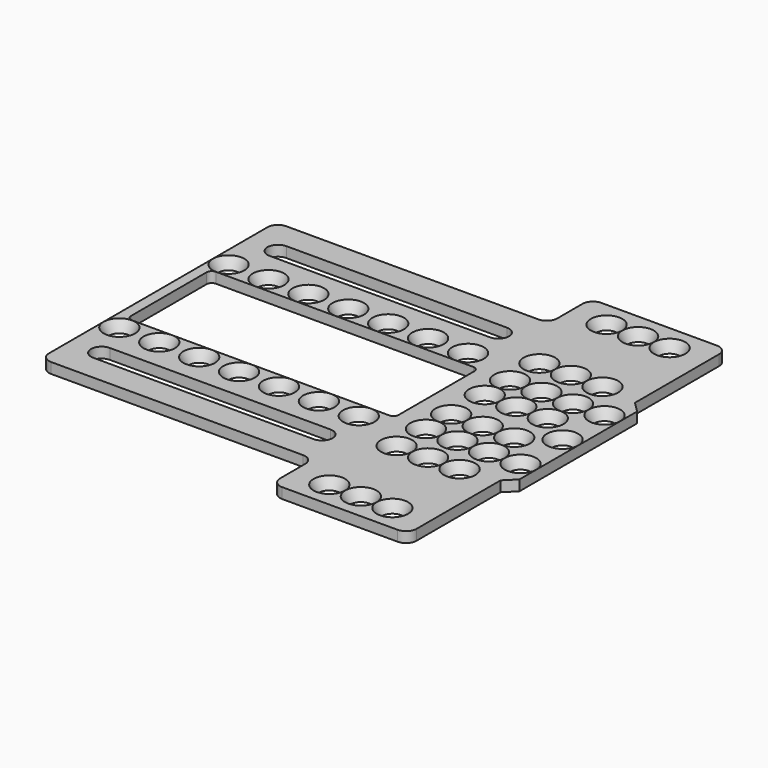
from build123d import *

# Parameters (mm, degrees)
SKETCH051_R             = 1
SKETCH050_R             = 1.5
SKETCH049_R             = 1
SKETCH048_R             = 1.5
SKETCH053_R             = 1
SKETCH052_R             = 1.5
SKETCH009_R             = 1
SKETCH008_R             = 1.5
LOFT004_PLACEMENT_ANGLE = 90
SKETCH011_R             = 1
SKETCH010_R             = 1.5
SKETCH012_R             = 1
SKETCH015_R             = 1.5
SKETCH017_R             = 1
SKETCH016_R             = 1.5
SKETCH014_R             = 1
SKETCH013_R             = 1.5
LOFT006_PLACEMENT_ANGLE = 90
SKETCH044_R             = 1
SKETCH047_R             = 1.5
SKETCH046_R             = 1
SKETCH045_R             = 1.5
SKETCH043_R             = 1
SKETCH042_R             = 1.5
LOFT021_PLACEMENT_ANGLE = 90
SKETCH039_R             = 1
SKETCH038_R             = 1.5
SKETCH035_R             = 1
SKETCH034_R             = 1.5
SKETCH041_R             = 1
SKETCH040_R             = 1.5
LOFT020_PLACEMENT_ANGLE = 90
SKETCH032_R             = 1
SKETCH037_R             = 1.5
SKETCH036_R             = 1
SKETCH033_R             = 1.5
SKETCH031_R             = 1
SKETCH030_R             = 1.5
LOFT015_PLACEMENT_ANGLE = 90
SKETCH027_R             = 1
SKETCH026_R             = 1.5
SKETCH025_R             = 1
SKETCH024_R             = 1.5
SKETCH029_R             = 1
SKETCH028_R             = 1.5
LOFT014_PLACEMENT_ANGLE = 90
SKETCH021_R             = 1
SKETCH020_R             = 1.5
SKETCH023_R             = 1
SKETCH022_R             = 1.5
SKETCH019_R             = 1
SKETCH018_R             = 1.5
LOFT009_PLACEMENT_ANGLE = 90
SKETCH007_R             = 1
SKETCH004_R             = 1.5
SKETCH001_R             = 1
SKETCH_R                = 1.5
SKETCH003_R             = 1
SKETCH002_R             = 1.5
LOFT001_PLACEMENT_ANGLE = 90
SKETCH006_R             = 1
SKETCH005_R             = 1.5
SKETCH059_R             = 1
SKETCH058_R             = 1.5
LOFT028_PLACEMENT_ANGLE = 90
SKETCH061_R             = 1
SKETCH060_R             = 1.5
LOFT029_PLACEMENT_ANGLE = 90
SKETCH063_R             = 1
SKETCH062_R             = 1.5
LOFT030_PLACEMENT_ANGLE = 90
SKETCH065_R             = 1
SKETCH069_R             = 1.5
LOFT031_PLACEMENT_ANGLE = 90
SKETCH067_R             = 1
SKETCH066_R             = 1.5
LOFT032_PLACEMENT_ANGLE = 90
SKETCH068_R             = 1
SKETCH064_R             = 1.5
LOFT033_PLACEMENT_ANGLE = 90
SKETCH057_R             = 1
SKETCH056_R             = 1.5
LOFT027_PLACEMENT_ANGLE = 90
SKETCH075_R             = 1
SKETCH083_R             = 1.5
LOFT036_PLACEMENT_ANGLE = 90
SKETCH079_R             = 1
SKETCH078_R             = 1.5
LOFT037_PLACEMENT_ANGLE = 90
SKETCH074_R             = 1
SKETCH073_R             = 1.5
LOFT038_PLACEMENT_ANGLE = 90
SKETCH080_R             = 1
SKETCH076_R             = 1.5
LOFT039_PLACEMENT_ANGLE = 90
SKETCH082_R             = 1
SKETCH081_R             = 1.5
LOFT040_PLACEMENT_ANGLE = 90
SKETCH071_R             = 1
SKETCH070_R             = 1.5
LOFT034_PLACEMENT_ANGLE = 90
SKETCH077_R             = 1
SKETCH072_R             = 1.5
LOFT035_PLACEMENT_ANGLE = 90
EXTRUDE_DEPTH           = 1
EXTRUDE001_DEPTH        = 1
EXTRUDE003_DEPTH        = 1
EXTRUDE002_DEPTH        = 1
CUT010_PLACEMENT_ANGLE  = 180


with BuildPart() as loft094:
    # Sketch051 → Loft025 section 0
    with BuildSketch(Plane.XY):
        with Locations((2, 2)):
            Circle(SKETCH051_R)
    # Sketch050 → Loft025 section 1
    with BuildSketch(Plane.XY.offset(1)):
        with Locations((2, 2)):
            Circle(SKETCH050_R)
    loft()


with BuildPart() as loft094_1:
    # Loft025 placement: moved
    add(loft094.part.moved(Location((-1.5, 22, 0))))


with BuildPart() as loft093:
    # Sketch049 → Loft024 section 0
    with BuildSketch(Plane.XY):
        with Locations((2, 2)):
            Circle(SKETCH049_R)
    # Sketch048 → Loft024 section 1
    with BuildSketch(Plane.XY.offset(1)):
        with Locations((2, 2)):
            Circle(SKETCH048_R)
    loft()


with BuildPart() as loft093_1:
    # Loft024 placement: moved
    add(loft093.part.moved(Location((-1.5, 12, 0))))


with BuildPart() as fusion004:
    # Sketch053 → Loft026 section 0
    with BuildSketch(Plane.XY):
        with Locations((2, 2)):
            Circle(SKETCH053_R)
    # Sketch052 → Loft026 section 1
    with BuildSketch(Plane.XY.offset(1)):
        with Locations((2, 2)):
            Circle(SKETCH052_R)
    loft()


with BuildPart() as fusion004_1:
    # Loft026 placement: moved
    add(fusion004.part.moved(Location((-1.5, 17, 0))))

    # Fusion004: union Loft094, Loft093
    add(loft094_1.part)
    add(loft093_1.part)


with BuildPart() as loft074:
    # Sketch009 → Loft004 section 0
    with BuildSketch(Plane.XY):
        with Locations((2, 2)):
            Circle(SKETCH009_R)
    # Sketch008 → Loft004 section 1
    with BuildSketch(Plane.XY.offset(1)):
        with Locations((2, 2)):
            Circle(SKETCH008_R)
    loft()


with BuildPart() as loft074_1:
    # Loft004 placement: moved
    add(loft074.part.moved(Location((11.502, 33.5, 0))).rotate(Axis((11.502, 33.5, 0), (0, 0, 1)), LOFT004_PLACEMENT_ANGLE))


with BuildPart() as loft005:
    # Sketch011 → Loft005 section 0
    with BuildSketch(Plane.XY):
        with Locations((2, 2)):
            Circle(SKETCH011_R)
    # Sketch010 → Loft005 section 1
    with BuildSketch(Plane.XY.offset(1)):
        with Locations((2, 2)):
            Circle(SKETCH010_R)
    loft()


with BuildPart() as loft005_1:
    # Loft005 placement: moved
    add(loft005.part.moved(Location((1.5, 33.5, 0))))


with BuildPart() as loft076:
    # Sketch012 → Loft007 section 0
    with BuildSketch(Plane.XY):
        with Locations((2, 2)):
            Circle(SKETCH012_R)
    # Sketch015 → Loft007 section 1
    with BuildSketch(Plane.XY.offset(1)):
        with Locations((2, 2)):
            Circle(SKETCH015_R)
    loft()


with BuildPart() as loft076_1:
    # Loft007 placement: moved
    add(loft076.part.moved(Location((1.5, 25.5, 0))))


with BuildPart() as loft077:
    # Sketch017 → Loft008 section 0
    with BuildSketch(Plane.XY):
        with Locations((2, 2)):
            Circle(SKETCH017_R)
    # Sketch016 → Loft008 section 1
    with BuildSketch(Plane.XY.offset(1)):
        with Locations((2, 2)):
            Circle(SKETCH016_R)
    loft()


with BuildPart() as loft077_1:
    # Loft008 placement: moved
    add(loft077.part.moved(Location((4.501, 25.5, 0))))


with BuildPart() as loft075:
    # Sketch014 → Loft006 section 0
    with BuildSketch(Plane.XY):
        with Locations((2, 2)):
            Circle(SKETCH014_R)
    # Sketch013 → Loft006 section 1
    with BuildSketch(Plane.XY.offset(1)):
        with Locations((2, 2)):
            Circle(SKETCH013_R)
    loft()


with BuildPart() as loft075_1:
    # Loft006 placement: moved
    add(loft075.part.moved(Location((11.502, 25.5, 0))).rotate(Axis((11.502, 25.5, 0), (0, 0, 1)), LOFT006_PLACEMENT_ANGLE))


with BuildPart() as loft092:
    # Sketch044 → Loft023 section 0
    with BuildSketch(Plane.XY):
        with Locations((2, 2)):
            Circle(SKETCH044_R)
    # Sketch047 → Loft023 section 1
    with BuildSketch(Plane.XY.offset(1)):
        with Locations((2, 2)):
            Circle(SKETCH047_R)
    loft()


with BuildPart() as loft092_1:
    # Loft023 placement: moved
    add(loft092.part.moved(Location((1.5, 22, 0))))


with BuildPart() as loft091:
    # Sketch046 → Loft022 section 0
    with BuildSketch(Plane.XY):
        with Locations((2, 2)):
            Circle(SKETCH046_R)
    # Sketch045 → Loft022 section 1
    with BuildSketch(Plane.XY.offset(1)):
        with Locations((2, 2)):
            Circle(SKETCH045_R)
    loft()


with BuildPart() as loft091_1:
    # Loft022 placement: moved
    add(loft091.part.moved(Location((4.501, 22, 0))))


with BuildPart() as loft090:
    # Sketch043 → Loft021 section 0
    with BuildSketch(Plane.XY):
        with Locations((2, 2)):
            Circle(SKETCH043_R)
    # Sketch042 → Loft021 section 1
    with BuildSketch(Plane.XY.offset(1)):
        with Locations((2, 2)):
            Circle(SKETCH042_R)
    loft()


with BuildPart() as loft090_1:
    # Loft021 placement: moved
    add(loft090.part.moved(Location((11.503, 22, 0))).rotate(Axis((11.503, 22, 0), (0, 0, 1)), LOFT021_PLACEMENT_ANGLE))


with BuildPart() as loft088:
    # Sketch039 → Loft019 section 0
    with BuildSketch(Plane.XY):
        with Locations((2, 2)):
            Circle(SKETCH039_R)
    # Sketch038 → Loft019 section 1
    with BuildSketch(Plane.XY.offset(1)):
        with Locations((2, 2)):
            Circle(SKETCH038_R)
    loft()


with BuildPart() as loft088_1:
    # Loft019 placement: moved
    add(loft088.part.moved(Location((1.5, 18.999, 0))))


with BuildPart() as loft087:
    # Sketch035 → Loft018 section 0
    with BuildSketch(Plane.XY):
        with Locations((2, 2)):
            Circle(SKETCH035_R)
    # Sketch034 → Loft018 section 1
    with BuildSketch(Plane.XY.offset(1)):
        with Locations((2, 2)):
            Circle(SKETCH034_R)
    loft()


with BuildPart() as loft087_1:
    # Loft018 placement: moved
    add(loft087.part.moved(Location((4.501, 18.999, 0))))


with BuildPart() as loft089:
    # Sketch041 → Loft020 section 0
    with BuildSketch(Plane.XY):
        with Locations((2, 2)):
            Circle(SKETCH041_R)
    # Sketch040 → Loft020 section 1
    with BuildSketch(Plane.XY.offset(1)):
        with Locations((2, 2)):
            Circle(SKETCH040_R)
    loft()


with BuildPart() as loft089_1:
    # Loft020 placement: moved
    add(loft089.part.moved(Location((11.502, 18.999, 0))).rotate(Axis((11.502, 18.999, 0), (0, 0, 1)), LOFT020_PLACEMENT_ANGLE))


with BuildPart() as loft086:
    # Sketch032 → Loft017 section 0
    with BuildSketch(Plane.XY):
        with Locations((2, 2)):
            Circle(SKETCH032_R)
    # Sketch037 → Loft017 section 1
    with BuildSketch(Plane.XY.offset(1)):
        with Locations((2, 2)):
            Circle(SKETCH037_R)
    loft()


with BuildPart() as loft086_1:
    # Loft017 placement: moved
    add(loft086.part.moved(Location((1.5, 15.001, 0))))


with BuildPart() as loft085:
    # Sketch036 → Loft016 section 0
    with BuildSketch(Plane.XY):
        with Locations((2, 2)):
            Circle(SKETCH036_R)
    # Sketch033 → Loft016 section 1
    with BuildSketch(Plane.XY.offset(1)):
        with Locations((2, 2)):
            Circle(SKETCH033_R)
    loft()


with BuildPart() as loft085_1:
    # Loft016 placement: moved
    add(loft085.part.moved(Location((4.501, 15.001, 0))))


with BuildPart() as loft084:
    # Sketch031 → Loft015 section 0
    with BuildSketch(Plane.XY):
        with Locations((2, 2)):
            Circle(SKETCH031_R)
    # Sketch030 → Loft015 section 1
    with BuildSketch(Plane.XY.offset(1)):
        with Locations((2, 2)):
            Circle(SKETCH030_R)
    loft()


with BuildPart() as loft084_1:
    # Loft015 placement: moved
    add(loft084.part.moved(Location((11.502, 15.001, 0))).rotate(Axis((11.502, 15.001, 0), (0, 0, 1)), LOFT015_PLACEMENT_ANGLE))


with BuildPart() as loft082:
    # Sketch027 → Loft013 section 0
    with BuildSketch(Plane.XY):
        with Locations((2, 2)):
            Circle(SKETCH027_R)
    # Sketch026 → Loft013 section 1
    with BuildSketch(Plane.XY.offset(1)):
        with Locations((2, 2)):
            Circle(SKETCH026_R)
    loft()


with BuildPart() as loft082_1:
    # Loft013 placement: moved
    add(loft082.part.moved(Location((1.5, 12, 0))))


with BuildPart() as loft081:
    # Sketch025 → Loft012 section 0
    with BuildSketch(Plane.XY):
        with Locations((2, 2)):
            Circle(SKETCH025_R)
    # Sketch024 → Loft012 section 1
    with BuildSketch(Plane.XY.offset(1)):
        with Locations((2, 2)):
            Circle(SKETCH024_R)
    loft()


with BuildPart() as loft081_1:
    # Loft012 placement: moved
    add(loft081.part.moved(Location((4.501, 12, 0))))


with BuildPart() as loft083:
    # Sketch029 → Loft014 section 0
    with BuildSketch(Plane.XY):
        with Locations((2, 2)):
            Circle(SKETCH029_R)
    # Sketch028 → Loft014 section 1
    with BuildSketch(Plane.XY.offset(1)):
        with Locations((2, 2)):
            Circle(SKETCH028_R)
    loft()


with BuildPart() as loft083_1:
    # Loft014 placement: moved
    add(loft083.part.moved(Location((11.502, 12, 0))).rotate(Axis((11.502, 12, 0), (0, 0, 1)), LOFT014_PLACEMENT_ANGLE))


with BuildPart() as loft079:
    # Sketch021 → Loft010 section 0
    with BuildSketch(Plane.XY):
        with Locations((2, 2)):
            Circle(SKETCH021_R)
    # Sketch020 → Loft010 section 1
    with BuildSketch(Plane.XY.offset(1)):
        with Locations((2, 2)):
            Circle(SKETCH020_R)
    loft()


with BuildPart() as loft079_1:
    # Loft010 placement: moved
    add(loft079.part.moved(Location((1.5, 8.5, 0))))


with BuildPart() as loft080:
    # Sketch023 → Loft011 section 0
    with BuildSketch(Plane.XY):
        with Locations((2, 2)):
            Circle(SKETCH023_R)
    # Sketch022 → Loft011 section 1
    with BuildSketch(Plane.XY.offset(1)):
        with Locations((2, 2)):
            Circle(SKETCH022_R)
    loft()


with BuildPart() as loft080_1:
    # Loft011 placement: moved
    add(loft080.part.moved(Location((4.501, 8.5, 0))))


with BuildPart() as loft078:
    # Sketch019 → Loft009 section 0
    with BuildSketch(Plane.XY):
        with Locations((2, 2)):
            Circle(SKETCH019_R)
    # Sketch018 → Loft009 section 1
    with BuildSketch(Plane.XY.offset(1)):
        with Locations((2, 2)):
            Circle(SKETCH018_R)
    loft()


with BuildPart() as loft078_1:
    # Loft009 placement: moved
    add(loft078.part.moved(Location((11.502, 8.5, 0))).rotate(Axis((11.502, 8.5, 0), (0, 0, 1)), LOFT009_PLACEMENT_ANGLE))


with BuildPart() as loft072:
    # Sketch007 → Loft002 section 0
    with BuildSketch(Plane.XY):
        with Locations((2, 2)):
            Circle(SKETCH007_R)
    # Sketch004 → Loft002 section 1
    with BuildSketch(Plane.XY.offset(1)):
        with Locations((2, 2)):
            Circle(SKETCH004_R)
    loft()


with BuildPart() as loft072_1:
    # Loft002 placement: moved
    add(loft072.part.moved(Location((1.5, 0.5, 0))))


with BuildPart() as loft070:
    # Sketch001 → Loft section 0
    with BuildSketch(Plane.XY):
        with Locations((2, 2)):
            Circle(SKETCH001_R)
    # Sketch → Loft section 1
    with BuildSketch(Plane.XY.offset(1)):
        with Locations((2, 2)):
            Circle(SKETCH_R)
    loft()


with BuildPart() as loft070_1:
    # Loft placement: moved
    add(loft070.part.moved(Location((4.501, 0.5, 0))))


with BuildPart() as loft071:
    # Sketch003 → Loft001 section 0
    with BuildSketch(Plane.XY):
        with Locations((2, 2)):
            Circle(SKETCH003_R)
    # Sketch002 → Loft001 section 1
    with BuildSketch(Plane.XY.offset(1)):
        with Locations((2, 2)):
            Circle(SKETCH002_R)
    loft()


with BuildPart() as loft071_1:
    # Loft001 placement: moved
    add(loft071.part.moved(Location((11.502, 0.5, 0))).rotate(Axis((11.502, 0.5, 0), (0, 0, 1)), LOFT001_PLACEMENT_ANGLE))


with BuildPart() as fusion005:
    # Sketch006 → Loft003 section 0
    with BuildSketch(Plane.XY):
        with Locations((2, 2)):
            Circle(SKETCH006_R)
    # Sketch005 → Loft003 section 1
    with BuildSketch(Plane.XY.offset(1)):
        with Locations((2, 2)):
            Circle(SKETCH005_R)
    loft()


with BuildPart() as fusion005_1:
    # Loft003 placement: moved
    add(fusion005.part.moved(Location((4.501, 33.5, 0))))

    # Fusion003: union Loft074, Loft005, Loft076, Loft077, Loft075, Loft092, Loft091, Loft090, Loft088, Loft087, Loft089, Loft086, Loft085, Loft084, Loft082, Loft081, Loft083, Loft079, Loft080, Loft078, Loft072, Loft070, Loft071
    add(loft074_1.part)
    add(loft005_1.part)
    add(loft076_1.part)
    add(loft077_1.part)
    add(loft075_1.part)
    add(loft092_1.part)
    add(loft091_1.part)
    add(loft090_1.part)
    add(loft088_1.part)
    add(loft087_1.part)
    add(loft089_1.part)
    add(loft086_1.part)
    add(loft085_1.part)
    add(loft084_1.part)
    add(loft082_1.part)
    add(loft081_1.part)
    add(loft083_1.part)
    add(loft079_1.part)
    add(loft080_1.part)
    add(loft078_1.part)
    add(loft072_1.part)
    add(loft070_1.part)
    add(loft071_1.part)


with BuildPart() as fusion005_2:
    # Fusion003 placement: moved
    add(fusion005_1.part.moved(Location((0.001, 0, 0))))

    # Fusion005: union Fusion004
    add(fusion004_1.part)


with BuildPart() as loft097:
    # Sketch059 → Loft028 section 0
    with BuildSketch(Plane.XY):
        with Locations((2, 2)):
            Circle(SKETCH059_R)
    # Sketch058 → Loft028 section 1
    with BuildSketch(Plane.XY.offset(1)):
        with Locations((2, 2)):
            Circle(SKETCH058_R)
    loft()


with BuildPart() as loft097_1:
    # Loft028 placement: moved
    add(loft097.part.moved(Location((35.7, 23.5, 0))).rotate(Axis((35.7, 23.5, 0), (0, 0, 1)), LOFT028_PLACEMENT_ANGLE))


with BuildPart() as loft098:
    # Sketch061 → Loft029 section 0
    with BuildSketch(Plane.XY):
        with Locations((2, 2)):
            Circle(SKETCH061_R)
    # Sketch060 → Loft029 section 1
    with BuildSketch(Plane.XY.offset(1)):
        with Locations((2, 2)):
            Circle(SKETCH060_R)
    loft()


with BuildPart() as loft098_1:
    # Loft029 placement: moved
    add(loft098.part.moved(Location((31.9, 23.5, 0))).rotate(Axis((31.9, 23.5, 0), (0, 0, 1)), LOFT029_PLACEMENT_ANGLE))


with BuildPart() as loft099:
    # Sketch063 → Loft030 section 0
    with BuildSketch(Plane.XY):
        with Locations((2, 2)):
            Circle(SKETCH063_R)
    # Sketch062 → Loft030 section 1
    with BuildSketch(Plane.XY.offset(1)):
        with Locations((2, 2)):
            Circle(SKETCH062_R)
    loft()


with BuildPart() as loft099_1:
    # Loft030 placement: moved
    add(loft099.part.moved(Location((28.1, 23.5, 0))).rotate(Axis((28.1, 23.5, 0), (0, 0, 1)), LOFT030_PLACEMENT_ANGLE))


with BuildPart() as loft100:
    # Sketch065 → Loft031 section 0
    with BuildSketch(Plane.XY):
        with Locations((2, 2)):
            Circle(SKETCH065_R)
    # Sketch069 → Loft031 section 1
    with BuildSketch(Plane.XY.offset(1)):
        with Locations((2, 2)):
            Circle(SKETCH069_R)
    loft()


with BuildPart() as loft100_1:
    # Loft031 placement: moved
    add(loft100.part.moved(Location((24.3, 23.5, 0))).rotate(Axis((24.3, 23.5, 0), (0, 0, 1)), LOFT031_PLACEMENT_ANGLE))


with BuildPart() as loft101:
    # Sketch067 → Loft032 section 0
    with BuildSketch(Plane.XY):
        with Locations((2, 2)):
            Circle(SKETCH067_R)
    # Sketch066 → Loft032 section 1
    with BuildSketch(Plane.XY.offset(1)):
        with Locations((2, 2)):
            Circle(SKETCH066_R)
    loft()


with BuildPart() as loft101_1:
    # Loft032 placement: moved
    add(loft101.part.moved(Location((16.7, 23.5, 0))).rotate(Axis((16.7, 23.5, 0), (0, 0, 1)), LOFT032_PLACEMENT_ANGLE))


with BuildPart() as loft102:
    # Sketch068 → Loft033 section 0
    with BuildSketch(Plane.XY):
        with Locations((2, 2)):
            Circle(SKETCH068_R)
    # Sketch064 → Loft033 section 1
    with BuildSketch(Plane.XY.offset(1)):
        with Locations((2, 2)):
            Circle(SKETCH064_R)
    loft()


with BuildPart() as loft102_1:
    # Loft033 placement: moved
    add(loft102.part.moved(Location((20.5, 23.5, 0))).rotate(Axis((20.5, 23.5, 0), (0, 0, 1)), LOFT033_PLACEMENT_ANGLE))


with BuildPart() as fusion:
    # Sketch057 → Loft027 section 0
    with BuildSketch(Plane.XY):
        with Locations((2, 2)):
            Circle(SKETCH057_R)
    # Sketch056 → Loft027 section 1
    with BuildSketch(Plane.XY.offset(1)):
        with Locations((2, 2)):
            Circle(SKETCH056_R)
    loft()


with BuildPart() as fusion_1:
    # Loft027 placement: moved
    add(fusion.part.moved(Location((39.5, 23.5, 0))).rotate(Axis((39.5, 23.5, 0), (0, 0, 1)), LOFT027_PLACEMENT_ANGLE))

    # Fusion: union Loft097, Loft098, Loft099, Loft100, Loft101, Loft102
    add(loft097_1.part)
    add(loft098_1.part)
    add(loft099_1.part)
    add(loft100_1.part)
    add(loft101_1.part)
    add(loft102_1.part)


with BuildPart() as loft105:
    # Sketch075 → Loft036 section 0
    with BuildSketch(Plane.XY):
        with Locations((2, 2)):
            Circle(SKETCH075_R)
    # Sketch083 → Loft036 section 1
    with BuildSketch(Plane.XY.offset(1)):
        with Locations((2, 2)):
            Circle(SKETCH083_R)
    loft()


with BuildPart() as loft105_1:
    # Loft036 placement: moved
    add(loft105.part.moved(Location((31.9, 10.5, 0))).rotate(Axis((31.9, 10.5, 0), (0, 0, 1)), LOFT036_PLACEMENT_ANGLE))


with BuildPart() as loft106:
    # Sketch079 → Loft037 section 0
    with BuildSketch(Plane.XY):
        with Locations((2, 2)):
            Circle(SKETCH079_R)
    # Sketch078 → Loft037 section 1
    with BuildSketch(Plane.XY.offset(1)):
        with Locations((2, 2)):
            Circle(SKETCH078_R)
    loft()


with BuildPart() as loft106_1:
    # Loft037 placement: moved
    add(loft106.part.moved(Location((35.7, 10.5, 0))).rotate(Axis((35.7, 10.5, 0), (0, 0, 1)), LOFT037_PLACEMENT_ANGLE))


with BuildPart() as loft107:
    # Sketch074 → Loft038 section 0
    with BuildSketch(Plane.XY):
        with Locations((2, 2)):
            Circle(SKETCH074_R)
    # Sketch073 → Loft038 section 1
    with BuildSketch(Plane.XY.offset(1)):
        with Locations((2, 2)):
            Circle(SKETCH073_R)
    loft()


with BuildPart() as loft107_1:
    # Loft038 placement: moved
    add(loft107.part.moved(Location((24.3, 10.5, 0))).rotate(Axis((24.3, 10.5, 0), (0, 0, 1)), LOFT038_PLACEMENT_ANGLE))


with BuildPart() as loft108:
    # Sketch080 → Loft039 section 0
    with BuildSketch(Plane.XY):
        with Locations((2, 2)):
            Circle(SKETCH080_R)
    # Sketch076 → Loft039 section 1
    with BuildSketch(Plane.XY.offset(1)):
        with Locations((2, 2)):
            Circle(SKETCH076_R)
    loft()


with BuildPart() as loft108_1:
    # Loft039 placement: moved
    add(loft108.part.moved(Location((28.1, 10.5, 0))).rotate(Axis((28.1, 10.5, 0), (0, 0, 1)), LOFT039_PLACEMENT_ANGLE))


with BuildPart() as loft109:
    # Sketch082 → Loft040 section 0
    with BuildSketch(Plane.XY):
        with Locations((2, 2)):
            Circle(SKETCH082_R)
    # Sketch081 → Loft040 section 1
    with BuildSketch(Plane.XY.offset(1)):
        with Locations((2, 2)):
            Circle(SKETCH081_R)
    loft()


with BuildPart() as loft109_1:
    # Loft040 placement: moved
    add(loft109.part.moved(Location((39.5, 10.5, 0))).rotate(Axis((39.5, 10.5, 0), (0, 0, 1)), LOFT040_PLACEMENT_ANGLE))


with BuildPart() as loft103:
    # Sketch071 → Loft034 section 0
    with BuildSketch(Plane.XY):
        with Locations((2, 2)):
            Circle(SKETCH071_R)
    # Sketch070 → Loft034 section 1
    with BuildSketch(Plane.XY.offset(1)):
        with Locations((2, 2)):
            Circle(SKETCH070_R)
    loft()


with BuildPart() as loft103_1:
    # Loft034 placement: moved
    add(loft103.part.moved(Location((20.5, 10.5, 0))).rotate(Axis((20.5, 10.5, 0), (0, 0, 1)), LOFT034_PLACEMENT_ANGLE))


with BuildPart() as fusion006:
    # Sketch077 → Loft035 section 0
    with BuildSketch(Plane.XY):
        with Locations((2, 2)):
            Circle(SKETCH077_R)
    # Sketch072 → Loft035 section 1
    with BuildSketch(Plane.XY.offset(1)):
        with Locations((2, 2)):
            Circle(SKETCH072_R)
    loft()


with BuildPart() as fusion006_1:
    # Loft035 placement: moved
    add(fusion006.part.moved(Location((16.7, 10.5, 0))).rotate(Axis((16.7, 10.5, 0), (0, 0, 1)), LOFT035_PLACEMENT_ANGLE))

    # Fusion001: union Loft105, Loft106, Loft107, Loft108, Loft109, Loft103
    add(loft105_1.part)
    add(loft106_1.part)
    add(loft107_1.part)
    add(loft108_1.part)
    add(loft109_1.part)
    add(loft103_1.part)

    # Fusion006: union Fusion005, Fusion
    add(fusion005_2.part)
    add(fusion_1.part)


with BuildPart() as extrude_body:
    # Sketch054 → Extrude (new body)
    with BuildSketch(Plane.XY):
        with BuildLine():
            ThreePointArc((36, 7), (37, 8), (36, 9))
            Line((15, 9), (36, 9))
            ThreePointArc((15, 9), (14, 8), (15, 7))
            Line((15, 7), (36, 7))
        make_face()
    extrude(amount=EXTRUDE_DEPTH)


with BuildPart() as extrude_body_1:
    # Extrude placement: moved
    add(extrude_body.part.moved(Location((0, 0.5, 0))))


with BuildPart() as extrude001:
    # Sketch055 → Extrude001 (new body)
    with BuildSketch(Plane(origin=(0, 22, 0), x_dir=(1, 0, 0), z_dir=(0, 0, 1))):
        with BuildLine():
            ThreePointArc((36, 7), (37, 8), (36, 9))
            Line((15, 9), (36, 9))
            ThreePointArc((15, 9), (14, 8), (15, 7))
            Line((15, 7), (36, 7))
        make_face()
    extrude(amount=EXTRUDE001_DEPTH)


with BuildPart() as extrude001_1:
    # Extrude001 placement: moved
    add(extrude001.part.moved(Location((0, -0.5, 0))))


with BuildPart() as fusion002:
    # Sketch085 → Extrude003 (new body)
    with BuildSketch(Plane.XY):
        with BuildLine():
            Line((13, 24), (37.5, 24))
            ThreePointArc((38, 23.5), (37.853553, 23.853553), (37.5, 24))
            Line((38, 14.5), (38, 23.5))
            ThreePointArc((37.5, 14), (37.853553, 14.146447), (38, 14.5))
            Line((13, 14), (37.5, 14))
            ThreePointArc((12.5, 14.5), (12.646447, 14.146447), (13, 14))
            Line((12.5, 23.5), (12.5, 14.5))
            ThreePointArc((13, 24), (12.646447, 23.853553), (12.5, 23.5))
        make_face()
    extrude(amount=EXTRUDE003_DEPTH)

    # Fusion002: union Extrude body, Extrude001
    add(extrude_body_1.part)
    add(extrude001_1.part)


with BuildPart() as obj1:
    # Sketch084 → Extrude002 (new body)
    with BuildSketch(Plane.XY):
        with BuildLine():
            ThreePointArc((0, 1), (0.292893, 0.292893), (1, 0))
            Line((1, 0), (12, 0))
            ThreePointArc((12, 0), (12.707107, 0.292893), (13, 1))
            Line((13, 1), (13, 4))
            ThreePointArc((14, 5), (13.292893, 4.707107), (13, 4))
            Line((14, 5), (38, 5))
            ThreePointArc((38, 5), (38.707107, 5.292893), (39, 6))
            Line((39, 6), (39, 32))
            ThreePointArc((39, 32), (38.707107, 32.707107), (38, 33))
            Line((38, 33), (14, 33))
            ThreePointArc((13, 34), (13.292893, 33.292893), (14, 33))
            Line((13, 34), (13, 37))
            ThreePointArc((13, 37), (12.707107, 37.707107), (12, 38))
            Line((12, 38), (1.000001, 38))
            ThreePointArc((1.000001, 38), (0.292893, 37.707107), (0, 37))
            Line((0, 37), (0, 27))
            Line((0, 27), (-1, 26))
            Line((-1, 26), (-1, 12))
            Line((-1, 12), (0, 11))
            Line((0, 11), (0, 1))
        make_face()
    extrude(amount=EXTRUDE002_DEPTH)

    # Cut: cut Fusion002
    add(fusion002.part, mode=Mode.SUBTRACT)

    # Cut010: cut Fusion006
    add(fusion006_1.part, mode=Mode.SUBTRACT)


with BuildPart() as obj1_1:
    # Cut010 placement: moved
    add(obj1.part.moved(Location((66, 19, 1))).rotate(Axis((66, 19, 1), (0, 0, 1)), CUT010_PLACEMENT_ANGLE))


solid = obj1_1.part
